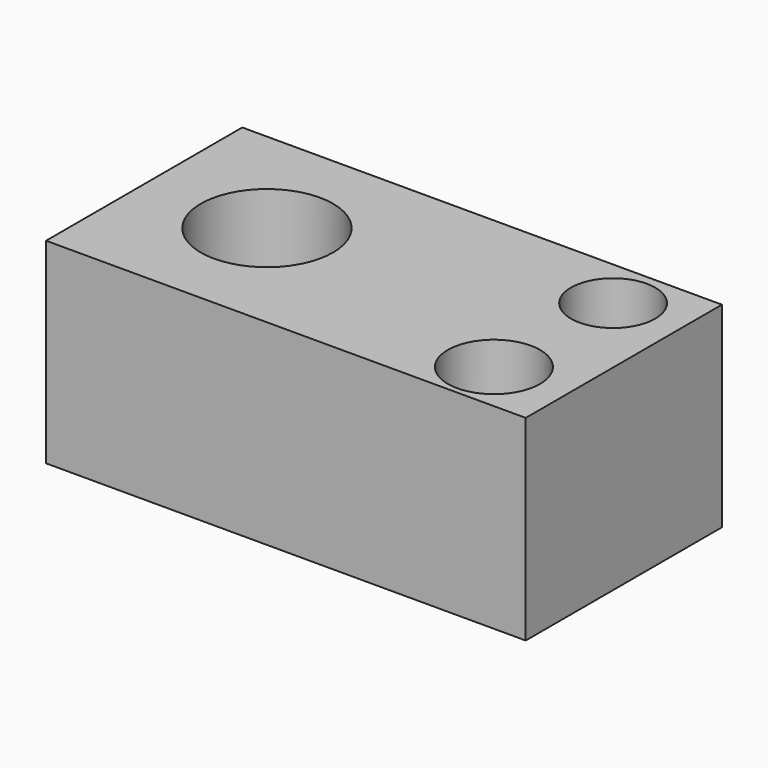
from build123d import *

# Parameters (mm, degrees)
F0_W     = 62.156647
F0_H     = 31.778897
F0_R     = 5.974125
F0_R_2   = 8.570031
F0_R_3   = 5.457517
F1_DEPTH = 6.35
F2_DEPTH = 25.4


with BuildPart() as f1:
    # F0 (on Top) → F1 (new body)
    with BuildSketch(Plane.XY):
        with Locations((-56.918233, -40.388333)):
            Rectangle(F0_W, F0_H)
        with Locations((-35.330459, -49.565207)):
            Circle(F0_R, mode=Mode.SUBTRACT)
        with Locations((-72.268285, -40.162876)):
            Circle(F0_R_2, mode=Mode.SUBTRACT)
        with Locations((-34.6459, -31.120101)):
            Circle(F0_R_3, mode=Mode.SUBTRACT)
    extrude(amount=F1_DEPTH)

    # F0 (on Top) → F2 (join)
    with BuildSketch(Plane.XY):
        with Locations((-56.918233, -40.388333)):
            Rectangle(F0_W, F0_H)
        with Locations((-35.330459, -49.565207)):
            Circle(F0_R, mode=Mode.SUBTRACT)
        with Locations((-72.268285, -40.162876)):
            Circle(F0_R_2, mode=Mode.SUBTRACT)
        with Locations((-34.6459, -31.120101)):
            Circle(F0_R_3, mode=Mode.SUBTRACT)
    extrude(amount=F2_DEPTH)


solid = f1.part
